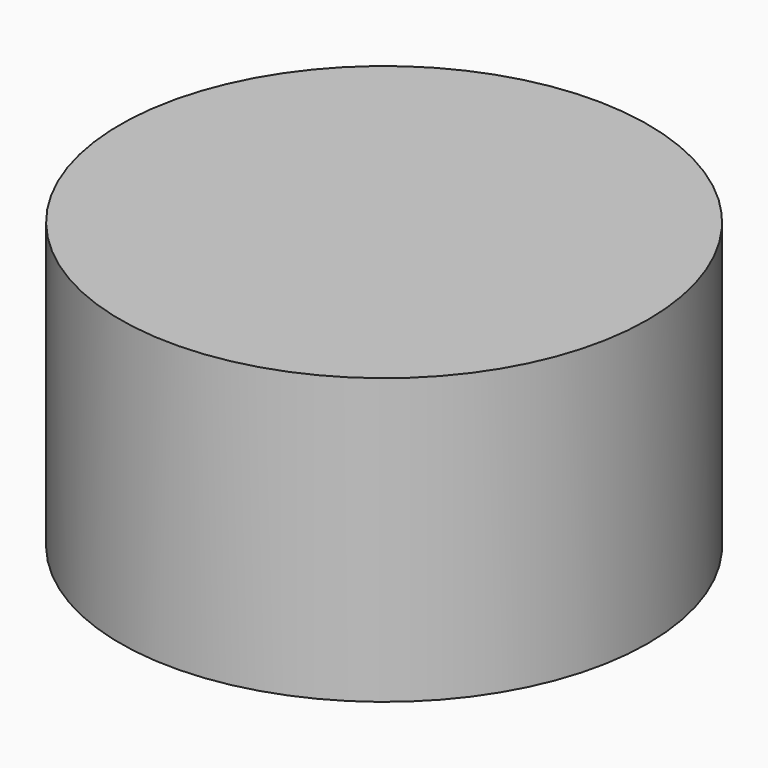
from build123d import *

# Parameters (mm, degrees)
CYLINDER_R     = 13.8938
CYLINDER_DEPTH = 15


with BuildPart() as part:
    # Cylinder → Cylinder (new body)
    with BuildSketch(Plane.XY.offset(-2.5)):
        Circle(CYLINDER_R)
    extrude(amount=CYLINDER_DEPTH)


solid = part.part
